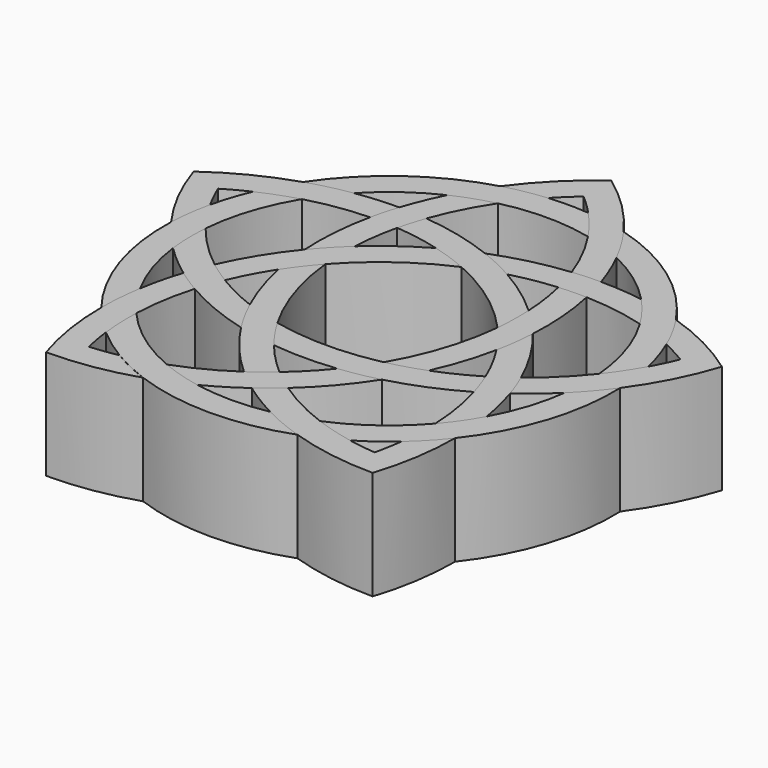
from build123d import *

# Parameters (mm, degrees)
F1_DEPTH  = 25.4
F2_DEPTH  = 25.4
F3_DEPTH  = 25.4
F4_DEPTH  = 25.4
F5_DEPTH  = 25.4
F6_DEPTH  = 25.4
F7_DEPTH  = 25.4
F8_DEPTH  = 25.4
F9_DEPTH  = 25.4
F10_DEPTH = 25.4
F11_DEPTH = 25.4
F12_DEPTH = 25.4
F13_DEPTH = 25.4
F14_DEPTH = 25.4
F15_DEPTH = 25.4
F16_DEPTH = 25.4
F17_DEPTH = 25.4
F18_DEPTH = 25.4
F19_DEPTH = 25.4
F20_DEPTH = 25.4


with BuildPart() as f1:
    # F0 (on Top) → F1 (new body)
    with BuildSketch(Plane.XY):
        with BuildLine():
            ThreePointArc((-66.3325271562, 104.6705654893), (-71.2196664602, 103.999198192), (-76.0220967391, 102.8715776707))
            ThreePointArc((-76.0220967391, 102.8715776707), (-92.4706424571, 94.865124654), (-105.1681119306, 81.6957581123))
            ThreePointArc((-105.1681119306, 81.6957581123), (-100.2127450007, 83.0860645399), (-95.1626944638, 84.0788399154))
            ThreePointArc((-95.1626944638, 84.0788399154), (-88.738206105, 89.7278667398), (-81.38038625, 94.0922729669))
            ThreePointArc((-81.38038625, 94.0922729669), (-76.8528947647, 95.9497557132), (-72.1539799632, 97.3167308373))
            ThreePointArc((-72.1539799632, 97.3167308373), (-61.6470973081, 98.5303023399), (-51.1402145299, 97.3167319026))
            ThreePointArc((-51.1402145299, 97.3167319026), (-53.9032491134, 101.1105650097), (-56.9616675444, 104.6705659161))
            ThreePointArc((-56.9616675444, 104.6705659161), (-61.6470973599, 104.8803023399), (-66.3325271562, 104.6705654893))
        make_face()
    extrude(amount=F1_DEPTH)


with BuildPart() as f2:
    # F0 (on Top) → F2 (new body)
    with BuildSketch(Plane.XY):
        with BuildLine():
            ThreePointArc((-114.0523516114, 54.3528799063), (-111.5206424571, 36.2352532708), (-102.9195644449, 20.089684121))
            ThreePointArc((-102.9195644449, 20.089684121), (-102.7105318379, 25.2321464438), (-102.0941658896, 30.3418143772))
            ThreePointArc((-102.0941658896, 30.3418143772), (-105.4814335786, 38.1975111851), (-107.3585391839, 46.5438893985))
            ThreePointArc((-107.3585391839, 46.5438893985), (-107.7260384947, 51.4237857623), (-107.5740641184, 56.3151401813))
            ThreePointArc((-107.5740641184, 56.3151401813), (-105.4814332125, 66.6827922814), (-101.0804536786, 76.3004163808))
            ThreePointArc((-101.0804536786, 76.3004163808), (-105.5424281509, 74.8449733425), (-109.8732936227, 73.0363454389))
            ThreePointArc((-109.8732936227, 73.0363454389), (-111.5206420829, 68.6450502206), (-112.7690479595, 64.1241306891))
            ThreePointArc((-112.7690479595, 64.1241306891), (-113.6407495728, 59.2687188025), (-114.0523516114, 54.3528799063))
        make_face()
    extrude(amount=F2_DEPTH)


with BuildPart() as f3:
    # F0 (on Top) → F3 (new body)
    with BuildSketch(Plane.XY):
        with BuildLine():
            ThreePointArc((-79.6603229963, 3.1908560395), (-61.6470949714, 0), (-43.6338669464, 3.1908560395))
            ThreePointArc((-43.6338669464, 3.1908560395), (-48.4600446204, 4.9787661132), (-53.1291600518, 7.1439391917))
            ThreePointArc((-53.1291600518, 7.1439391917), (-61.6470949714, 6.35), (-70.165029891, 7.1439391917))
            ThreePointArc((-70.165029891, 7.1439391917), (-74.9196506468, 8.3023974809), (-79.5246424643, 9.9584453367))
            ThreePointArc((-79.5246424643, 9.9584453367), (-88.738208962, 15.1524376759), (-96.5251367516, 22.3100294237))
            ThreePointArc((-96.5251367516, 22.3100294237), (-96.5197543857, 17.616682705), (-96.1379583327, 12.9388879077))
            ThreePointArc((-96.1379583327, 12.9388879077), (-92.4706453774, 10.0151798076), (-88.556772066, 7.4308328748))
            ThreePointArc((-88.556772066, 7.4308328748), (-84.208371575, 5.1013905953), (-79.6603229963, 3.1908560395))
        make_face()
    extrude(amount=F3_DEPTH)


with BuildPart() as f4:
    # F0 (on Top) → F4 (new body)
    with BuildSketch(Plane.XY):
        with BuildLine():
            ThreePointArc((-27.1562352436, 12.938884735), (-23.5970753146, 16.3546213991), (-20.3746254978, 20.089684121))
            ThreePointArc((-20.3746254978, 20.089684121), (-11.7735474857, 36.2352532708), (-9.2418383313, 54.3528799063))
            ThreePointArc((-9.2418383313, 54.3528799063), (-12.4336127766, 50.3154067779), (-15.9356507589, 46.5438893985))
            ThreePointArc((-15.9356507589, 46.5438893985), (-17.8127563642, 38.1975111851), (-21.2000240531, 30.3418143772))
            ThreePointArc((-21.2000240531, 30.3418143772), (-23.7710413056, 26.1778855865), (-26.7690562762, 22.3100258525))
            ThreePointArc((-26.7690562762, 22.3100258525), (-34.5559847801, 15.1524349155), (-43.7695517859, 9.9584435239))
            ThreePointArc((-43.7695517859, 9.9584435239), (-39.3042506102, 8.5132387255), (-34.7374219768, 7.4308304235))
            ThreePointArc((-34.7374219768, 7.4308304235), (-30.8235484489, 10.015176986), (-27.1562352436, 12.938884735))
        make_face()
    extrude(amount=F4_DEPTH)


with BuildPart() as f5:
    # F0 (on Top) → F5 (new body)
    with BuildSketch(Plane.XY):
        with BuildLine():
            ThreePointArc((-13.4208982146, 73.0363498751), (-15.5696151801, 77.4768304787), (-18.1260780122, 81.6957581123))
            ThreePointArc((-18.1260780122, 81.6957581123), (-30.8235474857, 94.865124654), (-47.2720932036, 102.8715776707))
            ThreePointArc((-47.2720932036, 102.8715776707), (-44.4185406213, 98.588371975), (-41.9138036928, 94.0922729669))
            ThreePointArc((-41.9138036928, 94.0922729669), (-34.5559838377, 89.7278667398), (-28.1314954789, 84.0788399154))
            ThreePointArc((-28.1314954789, 84.0788399154), (-24.9658533217, 80.3469343222), (-22.2137387072, 76.3004204185))
            ThreePointArc((-22.2137387072, 76.3004204185), (-17.8127574594, 66.6827945255), (-15.7201258244, 56.3151401813))
            ThreePointArc((-15.7201258244, 56.3151401813), (-12.9658007703, 60.1153011306), (-10.5251419832, 64.1241306891))
            ThreePointArc((-10.5251419832, 64.1241306891), (-11.7735486052, 68.6450525145), (-13.4208982146, 73.0363498751))
        make_face()
    extrude(amount=F5_DEPTH)


with BuildPart() as f6:
    # F0 (on Top) → F6 (new body)
    with BuildSketch(Plane.XY):
        with BuildLine():
            ThreePointArc((-41.9138036928, 94.0922729669), (-44.4185406213, 98.588371975), (-47.2720932036, 102.8715776707))
            ThreePointArc((-47.2720932036, 102.8715776707), (-53.8917511169, 110.6329836856), (-61.6470949714, 117.2597427664))
            ThreePointArc((-61.6470949714, 117.2597427664), (-69.4024388259, 110.6329836856), (-76.0220967391, 102.8715776707))
            ThreePointArc((-76.0220967391, 102.8715776707), (-71.2196664602, 103.999198192), (-66.3325271562, 104.6705654893))
            ThreePointArc((-66.3325271562, 104.6705654893), (-64.0523757093, 106.9861133855), (-61.6470974196, 109.171402618))
            ThreePointArc((-61.6470974196, 109.171402618), (-59.241819065, 106.9861136024), (-56.9616675444, 104.6705659161))
            ThreePointArc((-56.9616675444, 104.6705659161), (-53.9032491134, 101.1105650097), (-51.1402145299, 97.3167319026))
            ThreePointArc((-51.1402145299, 97.3167319026), (-47.5233079684, 91.1134887097), (-44.6940636605, 84.513669331))
            ThreePointArc((-44.6940636605, 84.513669331), (-41.4013163362, 84.7658229701), (-38.1, 84.8499469682))
            ThreePointArc((-38.1, 84.8499469682), (-39.8284349223, 89.5447535302), (-41.9138036928, 94.0922729669))
        make_face()
    extrude(amount=F6_DEPTH)


with BuildPart() as f7:
    # F0 (on Top) → F7 (new body)
    with BuildSketch(Plane.XY):
        with BuildLine():
            ThreePointArc((-85.1941899427, 84.8499469682), (-86.1343459035, 81.6842136048), (-86.9120482905, 78.4747058613))
            ThreePointArc((-86.9120482905, 78.4747058613), (-88.1730345601, 69.8263257612), (-88.2591235515, 61.0869234123))
            ThreePointArc((-88.2591235515, 61.0869234123), (-85.2193382062, 64.5426842452), (-81.941997184, 67.7740328343))
            ThreePointArc((-81.941997184, 67.7740328343), (-81.431040219, 73.0744210933), (-80.4399844953, 78.3063424678))
            ThreePointArc((-80.4399844953, 78.3063424678), (-79.6060390268, 81.4354911762), (-78.6001295514, 84.5136696653))
            ThreePointArc((-78.6001295514, 84.5136696653), (-75.7708857688, 91.1134882684), (-72.1539799632, 97.3167308373))
            ThreePointArc((-72.1539799632, 97.3167308373), (-76.8528947647, 95.9497557132), (-81.38038625, 94.0922729669))
            ThreePointArc((-81.38038625, 94.0922729669), (-83.4657550204, 89.5447535302), (-85.1941899427, 84.8499469682))
        make_face()
    extrude(amount=F7_DEPTH)


with BuildPart() as f8:
    # F0 (on Top) → F8 (new body)
    with BuildSketch(Plane.XY):
        with BuildLine():
            ThreePointArc((-78.0942331435, 29.8026075464), (-72.8876944063, 22.7828849922), (-66.7841454989, 16.5273881221))
            ThreePointArc((-66.7841454989, 16.5273881221), (-64.1610403557, 18.4264275394), (-61.6470974196, 20.4677805749))
            ThreePointArc((-61.6470974196, 20.4677805749), (-65.5241239031, 24.1179654678), (-69.0529862579, 28.1057360965))
            ThreePointArc((-69.0529862579, 28.1057360965), (-71.6906650025, 31.6399292699), (-74.0544701271, 35.3628711013))
            ThreePointArc((-74.0544701271, 35.3628711013), (-79.1549835912, 46.751496769), (-81.7226463591, 58.9630953583))
            ThreePointArc((-81.7226463591, 58.9630953583), (-84.5329170335, 55.5645323566), (-87.0790457245, 51.9638268107))
            ThreePointArc((-87.0790457245, 51.9638268107), (-85.1941910087, 44.7892395055), (-82.5019546322, 37.8769863568))
            ThreePointArc((-82.5019546322, 37.8769863568), (-80.4415127671, 33.7615060402), (-78.0942331435, 29.8026075464))
        make_face()
    extrude(amount=F8_DEPTH)


with BuildPart() as f9:
    # F0 (on Top) → F9 (new body)
    with BuildSketch(Plane.XY):
        with BuildLine():
            ThreePointArc((-43.6338669464, 3.1908560395), (-33.7164112051, 0.8026839699), (-23.5470949714, 0))
            ThreePointArc((-23.5470949714, 0), (-21.1680012541, 9.9196374581), (-20.3746254978, 20.089684121))
            ThreePointArc((-20.3746254978, 20.089684121), (-23.5970753146, 16.3546213991), (-27.1562352436, 12.938884735))
            ThreePointArc((-27.1562352436, 12.938884735), (-27.6398718433, 9.7253270086), (-28.3013023935, 6.5436030657))
            ThreePointArc((-28.3013023935, 6.5436030657), (-31.5316950005, 6.8977521071), (-34.7374219768, 7.4308304235))
            ThreePointArc((-34.7374219768, 7.4308304235), (-39.3042506102, 8.5132387255), (-43.7695517859, 9.9584435239))
            ThreePointArc((-43.7695517859, 9.9584435239), (-50.3418645481, 12.8510082909), (-56.5100468921, 16.5273859301))
            ThreePointArc((-56.5100468921, 16.5273859301), (-59.0257220753, 14.3879621939), (-61.6470949714, 12.3794404265))
            ThreePointArc((-61.6470949714, 12.3794404265), (-57.489223686, 9.5972106894), (-53.1291600518, 7.1439391917))
            ThreePointArc((-53.1291600518, 7.1439391917), (-48.4600446204, 4.9787661132), (-43.6338669464, 3.1908560395))
        make_face()
    extrude(amount=F9_DEPTH)


with BuildPart() as f10:
    # F0 (on Top) → F10 (new body)
    with BuildSketch(Plane.XY):
        with BuildLine():
            ThreePointArc((-21.2000240531, 30.3418143772), (-22.1858901377, 35.2465838926), (-23.5470949714, 40.0607107435))
            ThreePointArc((-23.5470949714, 40.0607107435), (-24.6472645028, 43.1744534207), (-25.9045917498, 46.2281224683))
            ThreePointArc((-25.9045917498, 46.2281224683), (-29.9678224699, 53.9659972616), (-35.0350663912, 61.0869234123))
            ThreePointArc((-35.0350663912, 61.0869234123), (-35.4630592873, 56.5044120496), (-36.2151451292, 51.9638223086))
            ThreePointArc((-36.2151451292, 51.9638223086), (-33.5130288514, 47.375386542), (-31.2395642, 42.5601468135))
            ThreePointArc((-31.2395642, 42.5601468135), (-30.0749724552, 39.5384307512), (-29.0794621456, 36.4568725225))
            ThreePointArc((-29.0794621456, 36.4568725225), (-27.4890923888, 29.4545188755), (-26.7690562762, 22.3100258525))
            ThreePointArc((-26.7690562762, 22.3100258525), (-23.7710413056, 26.1778855865), (-21.2000240531, 30.3418143772))
        make_face()
    extrude(amount=F10_DEPTH)


with BuildPart() as f11:
    # F0 (on Top) → F11 (new body)
    with BuildSketch(Plane.XY):
        with BuildLine():
            ThreePointArc((-41.5715469032, 58.9630942389), (-41.2956155404, 63.3644260873), (-41.3521961092, 67.7740359109))
            ThreePointArc((-41.3521961092, 67.7740359109), (-47.0941927236, 72.4705085621), (-53.3351786028, 76.480181334))
            ThreePointArc((-53.3351786028, 76.480181334), (-57.4211268323, 78.5985755956), (-61.6470949714, 80.4216939323))
            ThreePointArc((-61.6470949714, 80.4216939323), (-69.9853642813, 83.0404424747), (-78.6001295514, 84.5136696653))
            ThreePointArc((-78.6001295514, 84.5136696653), (-79.6060390268, 81.4354911762), (-80.4399844953, 78.3063424678))
            ThreePointArc((-80.4399844953, 78.3063424678), (-75.1578785248, 77.6321400192), (-69.9590153402, 76.4801790764))
            ThreePointArc((-69.9590153402, 76.4801790764), (-65.7477448829, 75.1713466213), (-61.6470989716, 73.5488348741))
            ThreePointArc((-61.6470989716, 73.5488348741), (-50.8266289406, 67.3332505497), (-41.5715469032, 58.9630942389))
        make_face()
    extrude(amount=F11_DEPTH)


with BuildPart() as f12:
    # F0 (on Top) → F12 (new body)
    with BuildSketch(Plane.XY):
        with BuildLine():
            ThreePointArc((-123.2941899427, 72.4705065417), (-119.3883005853, 63.0469550592), (-114.0523516114, 54.3528799063))
            ThreePointArc((-114.0523516114, 54.3528799063), (-113.6407495728, 59.2687188025), (-112.7690479595, 64.1241306891))
            ThreePointArc((-112.7690479595, 64.1241306891), (-114.26665875, 67.0082265054), (-115.6017199471, 69.9710728324))
            ThreePointArc((-115.6017199471, 69.9710728324), (-112.7801152799, 71.5833365149), (-109.8732936227, 73.0363454389))
            ThreePointArc((-109.8732936227, 73.0363454389), (-105.5424281509, 74.8449733425), (-101.0804536786, 76.3004163808))
            ThreePointArc((-101.0804536786, 76.3004163808), (-94.0631336381, 77.8233911043), (-86.9120482905, 78.4747058613))
            ThreePointArc((-86.9120482905, 78.4747058613), (-86.1343459035, 81.6842136048), (-85.1941899427, 84.8499469682))
            ThreePointArc((-85.1941899427, 84.8499469682), (-90.193332081, 84.6568826853), (-95.1626944638, 84.0788399154))
            ThreePointArc((-95.1626944638, 84.0788399154), (-100.2127450007, 83.0860645399), (-105.1681119306, 81.6957581123))
            ThreePointArc((-105.1681119306, 81.6957581123), (-114.5952344888, 77.798495677), (-123.2941899427, 72.4705065417))
        make_face()
    extrude(amount=F12_DEPTH)


with BuildPart() as f13:
    # F0 (on Top) → F13 (new body)
    with BuildSketch(Plane.XY):
        with BuildLine():
            ThreePointArc((-99.7470949714, 40.0607107435), (-97.0268291868, 38.1883047873), (-94.2147306663, 36.4568741898))
            ThreePointArc((-94.2147306663, 36.4568741898), (-86.3792972681, 32.5851075221), (-78.0942331435, 29.8026075464))
            ThreePointArc((-78.0942331435, 29.8026075464), (-80.4415127671, 33.7615060402), (-82.5019546322, 37.8769863568))
            ThreePointArc((-82.5019546322, 37.8769863568), (-87.3850288724, 40.00084562), (-92.0546285266, 42.5601485085))
            ThreePointArc((-92.0546285266, 42.5601485085), (-94.7729209933, 44.3202371492), (-97.389598193, 46.2281224683))
            ThreePointArc((-97.389598193, 46.2281224683), (-102.7921148502, 50.9583500554), (-107.5740641184, 56.3151401813))
            ThreePointArc((-107.5740641184, 56.3151401813), (-107.7260384947, 51.4237857623), (-107.3585391839, 46.5438893985))
            ThreePointArc((-107.3585391839, 46.5438893985), (-103.6780055803, 43.1553250523), (-99.7470949714, 40.0607107435))
        make_face()
    extrude(amount=F13_DEPTH)


with BuildPart() as f14:
    # F0 (on Top) → F14 (new body)
    with BuildSketch(Plane.XY):
        with BuildLine():
            ThreePointArc((-54.2412082038, 28.1057355768), (-49.6904422912, 28.7935788807), (-45.1999567993, 29.8026075464))
            ThreePointArc((-45.1999567993, 29.8026075464), (-36.9148942083, 32.5851068891), (-29.0794621456, 36.4568725225))
            ThreePointArc((-29.0794621456, 36.4568725225), (-30.0749724552, 39.5384307512), (-31.2395642, 42.5601468135))
            ThreePointArc((-31.2395642, 42.5601468135), (-35.9091625336, 40.0008449027), (-40.7922353106, 37.8769863568))
            ThreePointArc((-40.7922353106, 37.8769863568), (-44.9685401496, 36.4605303534), (-49.2397240449, 35.3628701829))
            ThreePointArc((-49.2397240449, 35.3628701829), (-61.6470971353, 34.0312719345), (-74.0544701271, 35.3628711013))
            ThreePointArc((-74.0544701271, 35.3628711013), (-71.6906650025, 31.6399292699), (-69.0529862579, 28.1057360965))
            ThreePointArc((-69.0529862579, 28.1057360965), (-61.6470972457, 27.681270317), (-54.2412082038, 28.1057355768))
        make_face()
    extrude(amount=F14_DEPTH)


with BuildPart() as f15:
    # F0 (on Top) → F15 (new body)
    with BuildSketch(Plane.XY):
        with BuildLine():
            ThreePointArc((-15.9356507589, 46.5438893985), (-12.4336127766, 50.3154067779), (-9.2418383313, 54.3528799063))
            ThreePointArc((-9.2418383313, 54.3528799063), (-3.9058893575, 63.0469550592), (0, 72.4705065417))
            ThreePointArc((0, 72.4705065417), (-8.698955454, 77.798495677), (-18.1260780122, 81.6957581123))
            ThreePointArc((-18.1260780122, 81.6957581123), (-15.5696151801, 77.4768304787), (-13.4208982146, 73.0363498751))
            ThreePointArc((-13.4208982146, 73.0363498751), (-10.514074942, 71.5833403185), (-7.6924687398, 69.97107584))
            ThreePointArc((-7.6924687398, 69.97107584), (-9.0275304822, 67.008227972), (-10.5251419832, 64.1241306891))
            ThreePointArc((-10.5251419832, 64.1241306891), (-12.9658007703, 60.1153011306), (-15.7201258244, 56.3151401813))
            ThreePointArc((-15.7201258244, 56.3151401813), (-20.5020750926, 50.9583500554), (-25.9045917498, 46.2281224683))
            ThreePointArc((-25.9045917498, 46.2281224683), (-24.6472645028, 43.1744534207), (-23.5470949714, 40.0607107435))
            ThreePointArc((-23.5470949714, 40.0607107435), (-19.6161843625, 43.1553250523), (-15.9356507589, 46.5438893985))
        make_face()
    extrude(amount=F15_DEPTH)


with BuildPart() as f16:
    # F0 (on Top) → F16 (new body)
    with BuildSketch(Plane.XY):
        with BuildLine():
            ThreePointArc((-36.3821423513, 78.4747091052), (-29.2310579126, 77.8233946107), (-22.2137387072, 76.3004204185))
            ThreePointArc((-22.2137387072, 76.3004204185), (-24.9658533217, 80.3469343222), (-28.1314954789, 84.0788399154))
            ThreePointArc((-28.1314954789, 84.0788399154), (-33.1008578618, 84.6568826853), (-38.1, 84.8499469682))
            ThreePointArc((-38.1, 84.8499469682), (-41.4013163362, 84.7658229701), (-44.6940636605, 84.513669331))
            ThreePointArc((-44.6940636605, 84.513669331), (-53.3088272587, 83.0404420892), (-61.6470949714, 80.4216939323))
            ThreePointArc((-61.6470949714, 80.4216939323), (-57.4211268323, 78.5985755956), (-53.3351786028, 76.480181334))
            ThreePointArc((-53.3351786028, 76.480181334), (-48.1363154155, 77.6321425932), (-42.8542094161, 78.3063453767))
            ThreePointArc((-42.8542094161, 78.3063453767), (-39.6205080072, 78.4801763606), (-36.3821423513, 78.4747091052))
        make_face()
    extrude(amount=F16_DEPTH)


with BuildPart() as f17:
    # F0 (on Top) → F17 (new body)
    with BuildSketch(Plane.XY):
        with BuildLine():
            ThreePointArc((-92.0546285266, 42.5601485085), (-89.7811630588, 47.3753897128), (-87.0790457245, 51.9638268107))
            ThreePointArc((-87.0790457245, 51.9638268107), (-84.5329170335, 55.5645323566), (-81.7226463591, 58.9630953583))
            ThreePointArc((-81.7226463591, 58.9630953583), (-72.4675664145, 67.3332506), (-61.6470989716, 73.5488348741))
            ThreePointArc((-61.6470989716, 73.5488348741), (-65.7477448829, 75.1713466213), (-69.9590153402, 76.4801790764))
            ThreePointArc((-69.9590153402, 76.4801790764), (-76.2000009172, 72.4705058753), (-81.941997184, 67.7740328343))
            ThreePointArc((-81.941997184, 67.7740328343), (-85.2193382062, 64.5426842452), (-88.2591235515, 61.0869234123))
            ThreePointArc((-88.2591235515, 61.0869234123), (-93.3263674729, 53.9659972616), (-97.389598193, 46.2281224683))
            ThreePointArc((-97.389598193, 46.2281224683), (-94.7729209933, 44.3202371492), (-92.0546285266, 42.5601485085))
        make_face()
    extrude(amount=F17_DEPTH)


with BuildPart() as f18:
    # F0 (on Top) → F18 (new body)
    with BuildSketch(Plane.XY):
        with BuildLine():
            ThreePointArc((-99.7470949714, 0), (-89.5777787377, 0.8026839699), (-79.6603229963, 3.1908560395))
            ThreePointArc((-79.6603229963, 3.1908560395), (-84.208371575, 5.1013905953), (-88.556772066, 7.4308328748))
            ThreePointArc((-88.556772066, 7.4308328748), (-91.7624989943, 6.8977547694), (-94.9928915421, 6.5436059412))
            ThreePointArc((-94.9928915421, 6.5436059412), (-95.654321915, 9.725330038), (-96.1379583327, 12.9388879077))
            ThreePointArc((-96.1379583327, 12.9388879077), (-96.5197543857, 17.616682705), (-96.5251367516, 22.3100294237))
            ThreePointArc((-96.5251367516, 22.3100294237), (-95.8051003919, 29.4545214883), (-94.2147306663, 36.4568741898))
            ThreePointArc((-94.2147306663, 36.4568741898), (-97.0268291868, 38.1883047873), (-99.7470949714, 40.0607107435))
            ThreePointArc((-99.7470949714, 40.0607107435), (-101.1082998051, 35.2465838926), (-102.0941658896, 30.3418143772))
            ThreePointArc((-102.0941658896, 30.3418143772), (-102.7105318379, 25.2321464438), (-102.9195644449, 20.089684121))
            ThreePointArc((-102.9195644449, 20.089684121), (-102.1261886887, 9.9196374581), (-99.7470949714, 0))
        make_face()
    extrude(amount=F18_DEPTH)


with BuildPart() as f19:
    # F0 (on Top) → F19 (new body)
    with BuildSketch(Plane.XY):
        with BuildLine():
            ThreePointArc((-70.165029891, 7.1439391917), (-65.8049662567, 9.5972106894), (-61.6470949714, 12.3794404265))
            ThreePointArc((-61.6470949714, 12.3794404265), (-59.0257220753, 14.3879621939), (-56.5100468921, 16.5273859301))
            ThreePointArc((-56.5100468921, 16.5273859301), (-50.406496602, 22.7828837415), (-45.1999567993, 29.8026075464))
            ThreePointArc((-45.1999567993, 29.8026075464), (-49.6904422912, 28.7935788807), (-54.2412082038, 28.1057355768))
            ThreePointArc((-54.2412082038, 28.1057355768), (-57.7700707515, 24.1179651918), (-61.6470974196, 20.4677805749))
            ThreePointArc((-61.6470974196, 20.4677805749), (-64.1610403557, 18.4264275394), (-66.7841454989, 16.5273881221))
            ThreePointArc((-66.7841454989, 16.5273881221), (-72.9523287238, 12.8510101642), (-79.5246424643, 9.9584453367))
            ThreePointArc((-79.5246424643, 9.9584453367), (-74.9196506468, 8.3023974809), (-70.165029891, 7.1439391917))
        make_face()
    extrude(amount=F19_DEPTH)


with BuildPart() as f20:
    # F0 (on Top) → F20 (new body)
    with BuildSketch(Plane.XY):
        with BuildLine():
            ThreePointArc((-36.2151451292, 51.9638223086), (-35.4630592873, 56.5044120496), (-35.0350663912, 61.0869234123))
            ThreePointArc((-35.0350663912, 61.0869234123), (-35.1211555108, 69.8263274154), (-36.3821423513, 78.4747091052))
            ThreePointArc((-36.3821423513, 78.4747091052), (-39.6205080072, 78.4801763606), (-42.8542094161, 78.3063453767))
            ThreePointArc((-42.8542094161, 78.3063453767), (-41.8631533758, 73.0744241018), (-41.3521961092, 67.7740359109))
            ThreePointArc((-41.3521961092, 67.7740359109), (-41.2956155404, 63.3644260873), (-41.5715469032, 58.9630942389))
            ThreePointArc((-41.5715469032, 58.9630942389), (-44.1392100613, 46.7514956767), (-49.2397240449, 35.3628701829))
            ThreePointArc((-49.2397240449, 35.3628701829), (-44.9685401496, 36.4605303534), (-40.7922353106, 37.8769863568))
            ThreePointArc((-40.7922353106, 37.8769863568), (-38.0999996437, 44.7892373212), (-36.2151451292, 51.9638223086))
        make_face()
    extrude(amount=F20_DEPTH)


solid = Compound([f1.part, f2.part, f3.part, f4.part, f5.part, f6.part, f7.part, f8.part, f9.part, f10.part, f11.part, f12.part, f13.part, f14.part, f15.part, f16.part, f17.part, f18.part, f19.part, f20.part])
